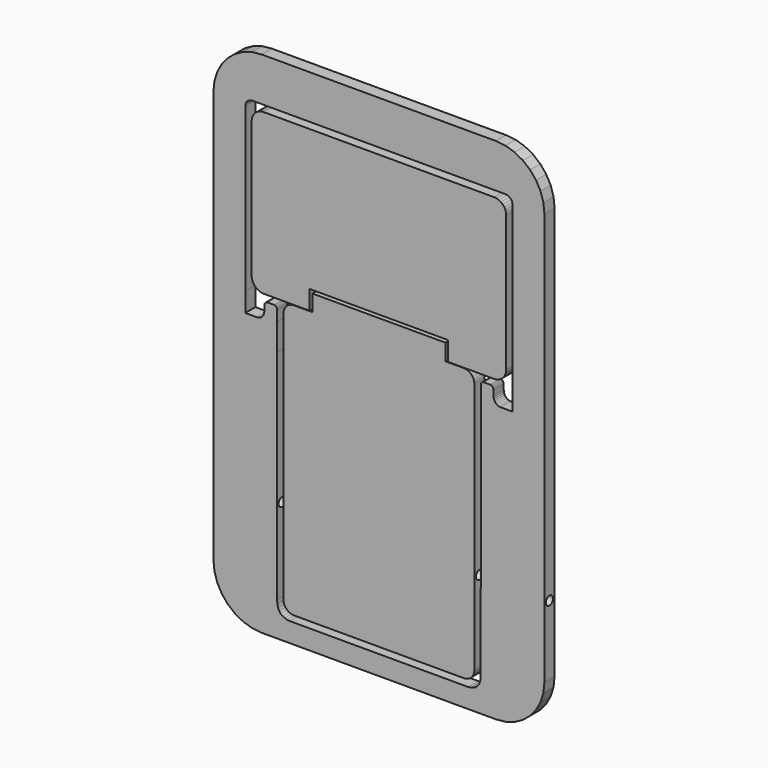
from build123d import *

# Parameters (mm, degrees)
F1_DEPTH = 20
F2_R     = 6.9487295413
F3_DEPTH = 498


with BuildPart() as f1:
    # F0 (on Front) → F1 (new body)
    with BuildSketch(Plane.XZ):
        Polygon((181.05225, 321.3562), (-180.97095, 321.3562), (-184.79345, 320.9678), (-188.35955, 319.8547), (-191.59115, 318.0949), (-194.41015, 315.7665), (-196.73865, 312.9474), (-198.49845, 309.7158), (-199.61155, 306.1497), (-199.99995, 302.3272), (-199.99995, 89.0287), (-199.61155, 85.2062), (-198.49845, 81.6401), (-196.73865, 78.4085), (-194.41015, 75.5895), (-191.59115, 73.261), (-188.35955, 71.5012), (-184.79345, 70.3881), (-180.97095, 69.9997), (-108.7565273046, 69.9997), (-108.7565273046, 100.1643911004), (108.7565273046, 100.1643911004), (108.7565273046, 69.9997), (181.05225, 69.9997), (184.87475, 70.3881), (188.44085, 71.5012), (191.67245, 73.261), (194.49155, 75.5895), (196.81995, 78.4085), (198.57975, 81.6401), (199.69285, 85.2062), (200.08125, 89.0287), (200.08125, 302.3272), (199.69285, 306.1497), (198.57975, 309.7158), (196.81995, 312.9474), (194.49155, 315.7665), (191.67245, 318.0949), (188.44085, 319.8547), (184.87475, 320.9678), align=None)
    extrude(amount=F1_DEPTH)


with BuildPart() as f1b:
    # F0 (on Front) → F1, piece 2 (new body)
    with BuildSketch(Plane.XZ):
        Polygon((-104.2371019721, 69.4406), (-133.56085, 69.4406), (-136.84165, 69.1073), (-139.90225, 68.1519), (-142.67585, 66.6415), (-145.09535, 64.6431), (-147.09375, 62.2236), (-148.60415, 59.45), (-149.55955, 56.3894), (-149.89285, 53.1086), (-149.89285, -343.0884), (-149.55955, -346.3692), (-148.60415, -349.4298), (-147.09375, -352.2034), (-145.09535, -354.6229), (-142.67585, -356.6213), (-139.90225, -358.1317), (-136.84165, -359.0871), (-133.56085, -359.4204), (133.66585, -359.4204), (136.94665, -359.0871), (140.00725, -358.1317), (142.78085, -356.6213), (145.20035, -354.6229), (147.19875, -352.2034), (148.70915, -349.4298), (149.66455, -346.3692), (149.99785, -343.0884), (149.99785, 53.1086), (149.66455, 56.3894), (148.70915, 59.45), (147.19875, 62.2236), (145.20035, 64.6431), (142.78085, 66.6415), (140.00725, 68.1519), (136.94665, 69.1073), (133.66585, 69.4406), (104.3369472027, 69.4406), (104.3369472027, 95.2381342649), (-104.2371019721, 95.2381342649), align=None)
    extrude(amount=F1_DEPTH)


with BuildPart() as f1c:
    # F0 (on Front) → F1, piece 3 (new body)
    with BuildSketch(Plane.XZ):
        Polygon((183.76235, 400), (-183.76235, 400), (-199.07695, 398.444), (-213.36405, 393.9844), (-226.31105, 386.9339), (-237.60515, 377.6052), (-246.93385, 366.311), (-253.98435, 353.364), (-258.44395, 339.0768), (-259.99995, 323.7623), (-259.99995, -323.7624), (-258.44395, -339.0769), (-253.98435, -353.364), (-246.93385, -366.311), (-237.60515, -377.6052), (-226.31105, -386.9339), (-213.36405, -393.9844), (-199.07695, -398.444), (-183.76235, -400), (183.76235, -400), (199.07695, -398.444), (213.36405, -393.9844), (226.31105, -386.9339), (237.60525, -377.6052), (246.93385, -366.311), (253.98435, -353.364), (258.44395, -339.0769), (259.99995, -323.7624), (259.99995, 323.7623), (258.44395, 339.0768), (253.98435, 353.364), (246.93385, 366.311), (237.60525, 377.6052), (226.31105, 386.9339), (213.36405, 393.9844), (199.07695, 398.444), align=None)
        Polygon((144.27905, -368.8549), (140.04065, -369.4204), (-139.99995, -369.4204), (-144.22495, -368.8549), (-148.06525, -367.7816), (-151.46535, -366.1271), (-154.36945, -363.8181), (-156.72225, -360.7812), (-158.46805, -356.9432), (-159.55135, -352.2306), (-159.91655, -346.5702), (-159.98735, -4.1886), (-160.00005, 38.3905), (-160.00005, 53.56), (-160.10135, 55.0534), (-160.33905, 56.3593), (-160.71665, 57.473), (-161.23735, 58.3901), (-161.90445, 59.1058), (-162.72145, 59.6158), (-163.69145, 59.9153), (-164.81795, 59.9999), (-174.43115, 59.9997), (-175.59755, 59.9355), (-176.63045, 59.671), (-177.53015, 59.2068), (-178.29725, 58.5436), (-178.93205, 57.6819), (-179.43495, 56.6225), (-179.80635, 55.3658), (-180.04665, 53.9125), (-180.01395, 47.0347), (-180.19175, 44.4526), (-180.74405, 42.0334), (-181.66065, 39.8328), (-182.93195, 37.9069), (-184.54785, 36.3115), (-186.49845, 35.1026), (-188.77405, 34.3361), (-191.36455, 34.0679), (-209.99365, 34.0633), (-209.99995, 63.9669), (-209.99995, 320.2601), (-209.77345, 322.4891), (-209.12445, 324.5685), (-208.09825, 326.4529), (-206.74045, 328.0967), (-205.09665, 329.4545), (-203.21225, 330.4807), (-201.13285, 331.1297), (-198.90385, 331.3562), (198.94455, 331.3562), (201.18695, 331.1297), (203.27645, 330.4807), (205.16805, 329.4545), (206.81675, 328.0967), (208.17735, 326.4529), (209.20505, 324.5685), (209.85465, 322.4891), (210.08125, 320.2601), (210.08125, 63.9669), (210.07495, 34.0633), (191.44585, 34.0679), (188.85535, 34.3361), (186.57975, 35.1026), (184.62915, 36.3115), (183.01325, 37.9069), (181.74195, 39.8328), (180.82535, 42.0334), (180.27305, 44.4526), (180.09525, 47.0347), (180.12795, 53.9125), (179.88765, 55.3658), (179.51625, 56.6225), (179.01335, 57.6819), (178.37855, 58.5436), (177.61145, 59.2068), (176.71175, 59.671), (175.67885, 59.9355), (174.51245, 59.9997), (164.89925, 59.9999), (163.77275, 59.9153), (162.80275, 59.6158), (161.98575, 59.1058), (161.31865, 58.3901), (160.79795, 57.473), (160.42045, 56.3593), (160.18265, 55.0534), (160.08135, 53.56), (160.08135, 38.3905), (160.06865, -4.1886), (159.99785, -346.5702), (159.63255, -352.2306), (158.54875, -356.9432), (156.80145, -360.7812), (154.44575, -363.8181), (151.53665, -366.1271), (148.12945, -367.7816), align=None, mode=Mode.SUBTRACT)
    extrude(amount=F1_DEPTH)


with BuildPart() as f3_tool:
    # F2 (on Right) → F3 (new body, symmetric)
    with BuildSketch(Plane.YZ):
        with Locations((-10.1111577824, -214.9584442377)):
            Circle(F2_R)
    extrude(amount=F3_DEPTH, both=True)


with BuildPart() as f1b_1:
    add(f1b.part)

    # F3: cut by f3_tool
    add(f3_tool.part, mode=Mode.SUBTRACT)


with BuildPart() as f1c_1:
    add(f1c.part)

    # F3: cut by f3_tool
    add(f3_tool.part, mode=Mode.SUBTRACT)


solid = Compound([f1.part, f1b_1.part, f1c_1.part])
